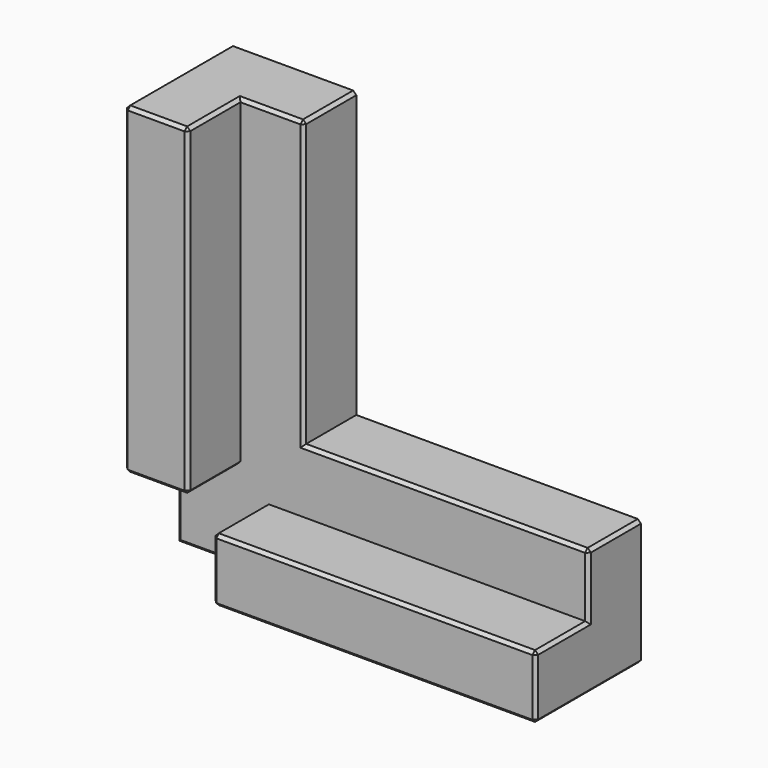
from build123d import *

# Parameters (mm, degrees)
F1_DEPTH = 10.4
F2_W     = 10
F2_H     = 51
F2_W_2   = 51
F2_H_2   = 10
F3_DEPTH = 10.4
F4_SIZE  = 0.5


with BuildPart() as f1:
    # F0 (on Front) → F1 (new body)
    with BuildSketch(Plane.XZ):
        Polygon((0, 65), (0, 0), (65, 0), (65, 20), (20, 20), (20, 65), align=None)
    extrude(amount=F1_DEPTH)

    # F2 (on face) → F3 (join)
    with BuildSketch(Plane.XZ.offset(10.4)):
        with Locations((5, 39.5)):
            Rectangle(F2_W, F2_H)
        with Locations((39.5, 5)):
            Rectangle(F2_W_2, F2_H_2)
    extrude(amount=F3_DEPTH)

    # F4
    f4_edges = [f1.edges().sort_by_distance(p)[0] for p in [
        (20, -10.4, 42.5),
        (15, -10.4, 65),
        (5, -20.8, 65),
        (0, -20.8, 39.5),
        (5, -20.8, 14),
        (10, -20.8, 39.5),
        (14, -20.8, 5),
        (39.5, -20.8, 0),
        (65, -20.8, 5),
        (39.5, -20.8, 10),
        (65, -10.4, 15),
        (65, -15.6, 10),
        (10, -15.6, 65),
        (20, -5.2, 65),
        (65, -5.2, 20),
        (42.5, -10.4, 20),
        (0, -10.4, 7),
        (7, -10.4, 0),
        (14, -15.6, 0),
        (0, -15.6, 14),
        (10, -15.6, 14),
        (14, -15.6, 10),
        (0, -10.4, 65),
        (65, -10.4, 0),
    ]]
    chamfer(f4_edges, length=F4_SIZE)


solid = f1.part
